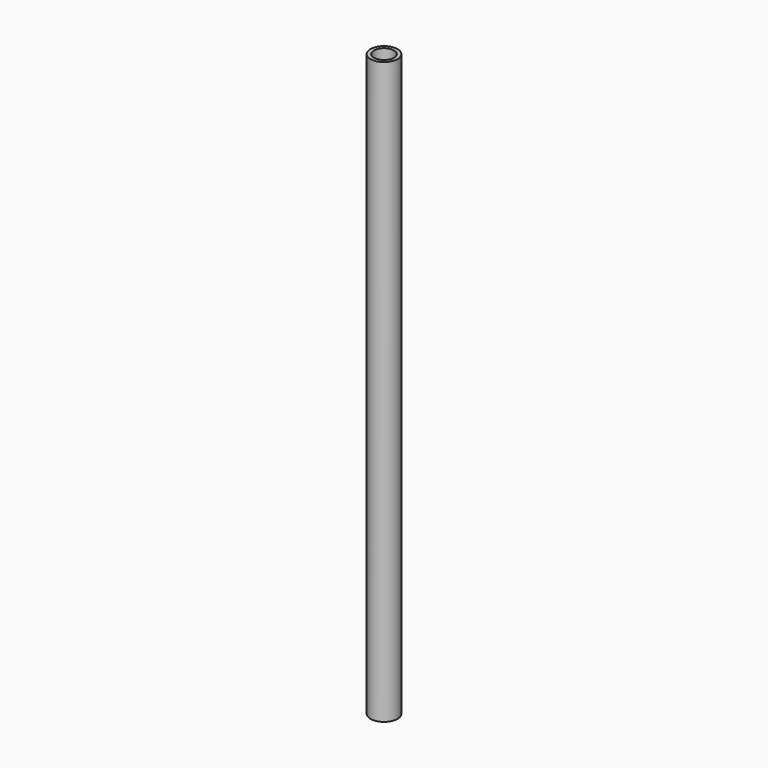
from build123d import *

# Parameters (mm, degrees)
F1_R     = 10.668
F1_R_2   = 7.874
F2_DEPTH = 457.2


with BuildPart() as f2:
    # F1 (on face) → F2 (new body)
    with BuildSketch(Plane.XY):
        with Locations((72.060592, 47.027521)):
            Circle(F1_R)
        with Locations((72.060592, 47.027521)):
            Circle(F1_R_2, mode=Mode.SUBTRACT)
    extrude(amount=-F2_DEPTH)


solid = f2.part
